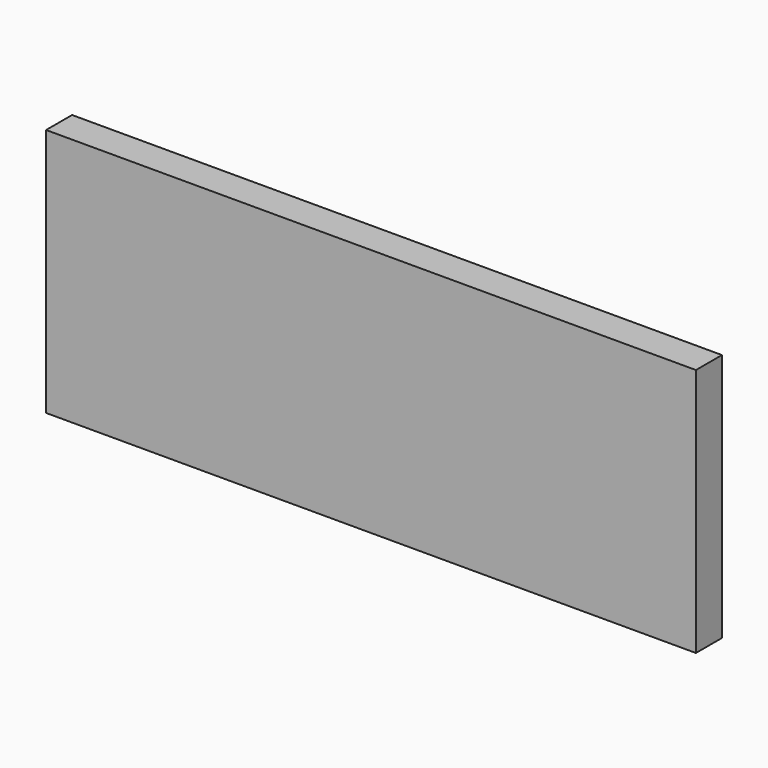
from build123d import *

# Parameters (mm, degrees)
F0_W     = 390.3202265501
F0_H     = 155.9184342623
F1_DEPTH = 25.4
F3_W     = 381
F3_H     = 152.4
F4_DEPTH = 25.4
F6_W     = 381
F6_H     = 146.05
F7_DEPTH = 19.05


with BuildPart() as f1:
    # F0 (on Right) → F1 (new body)
    with BuildSketch(Plane.YZ):
        with Locations((4.6128705144, -15.4182091355)):
            Rectangle(F0_W, F0_H)
    extrude(amount=F1_DEPTH)


with BuildPart() as f4:
    # F3 (on Front) → F4 (new body)
    with BuildSketch(Plane.XZ):
        with Locations((8.0656352626, 25.2555180341)):
            Rectangle(F3_W, F3_H)
    extrude(amount=F4_DEPTH)


with BuildPart() as f7:
    # F6 (on Front) → F7 (new body)
    with BuildSketch(Plane.XZ):
        with Locations((-35.415730298, -4.1510537267)):
            Rectangle(F6_W, F6_H)
    extrude(amount=F7_DEPTH)


solid = f7.part
